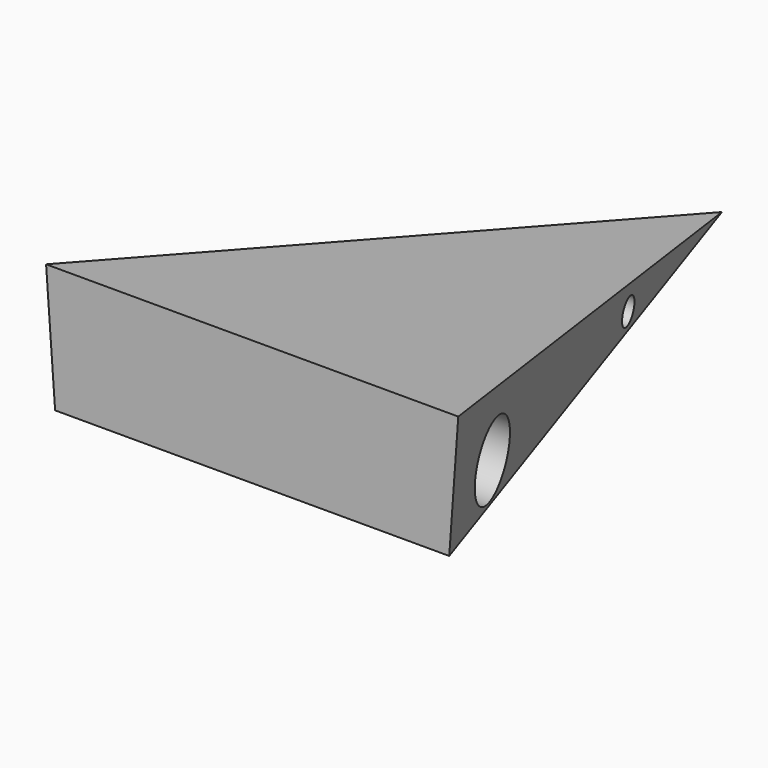
from build123d import *

# Parameters (mm, degrees)
F0_W     = 270.8007246256
F0_H     = 385.7633024454
F1_DEPTH = 82.55
F3_DEPTH = 508
F5_R     = 8.6846383289
F5_R_2   = 24.5957658021
F6_DEPTH = 381
F7_DEPTH = 1016


with BuildPart() as f1:
    # F0 (on Top) → F1 (new body)
    with BuildSketch(Plane.XY):
        with Locations((12.6297399402, 24.1259709001)):
            Rectangle(F0_W, F0_H)
    extrude(amount=F1_DEPTH)

    # F2 (on face) → F3 (cut)
    with BuildSketch(Plane.YZ.offset(148.030102253)):
        Polygon((217.0076221228, 82.55), (-168.7556803226, 82.55), (217.0076221228, 0), align=None)
    extrude(amount=-F3_DEPTH, mode=Mode.SUBTRACT)

    # F5 (on face) → F6 (cut)
    with BuildSketch(Plane(origin=(-122.7706223726, 0, 0), x_dir=(0, -1, 0), z_dir=(-1, 0, 0))):
        with Locations((-82.6604217291, 12.0333293453)):
            Circle(F5_R)
        with Locations((111.8754446507, 26.6235191375)):
            Circle(F5_R_2)
    extrude(amount=-F6_DEPTH, mode=Mode.SUBTRACT)

    # F4 (on face) → F7 (cut)
    with BuildSketch(Plane(origin=(0, 9.5021501125, 44.4043707783), x_dir=(1, 0, 0), z_dir=(0, 0.2092538463, 0.9778613541))):
        Polygon((148.030102253, 212.2033672174), (12.6297399402, 212.2033672174), (148.030102253, -182.2935630794), align=None)
        Polygon((-122.7706223726, -182.2935630794), (12.6297399402, 212.2033672174), (-122.7706223726, 212.2033672174), align=None)
    extrude(amount=-F7_DEPTH, mode=Mode.SUBTRACT)


solid = f1.part
